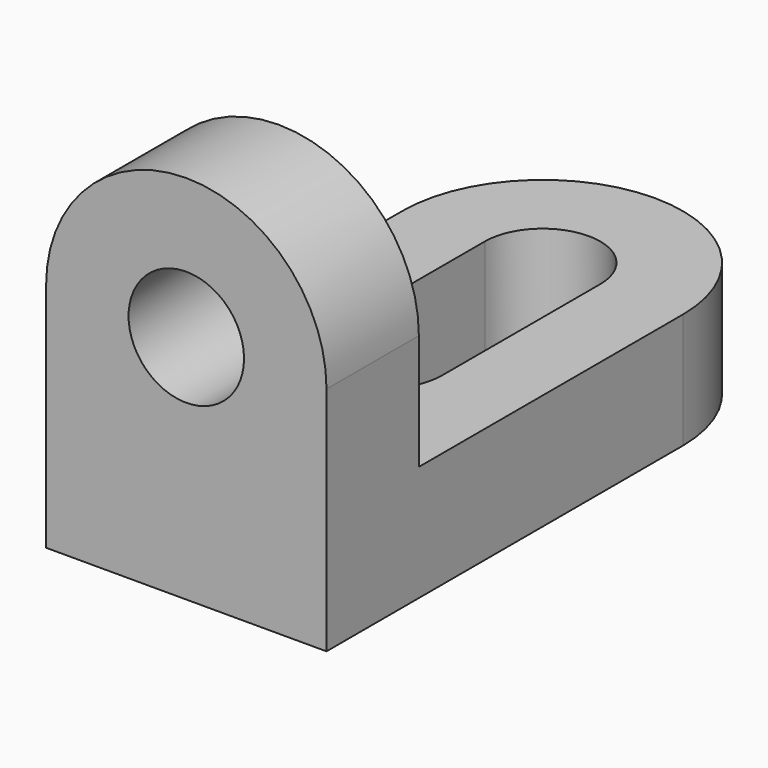
from build123d import *

# Parameters (mm, degrees)
F1_DEPTH = 14
F2_R     = 7
F3_DEPTH = 14


with BuildPart() as f1:
    # F0 (on Top) → F1 (new body)
    with BuildSketch(Plane.XY):
        with BuildLine():
            Line((0, 54), (0, 0))
            Line((0, 0), (34, 0))
            Line((34, 0), (34, 54))
            ThreePointArc((34, 54), (17, 71), (0, 54))
        make_face()
        with BuildLine():
            ThreePointArc((10, 54), (17, 61), (24, 54))
            Line((24, 54), (24, 30))
            ThreePointArc((24, 30), (17, 23), (10, 30))
            Line((10, 30), (10, 54))
        make_face(mode=Mode.SUBTRACT)
    extrude(amount=F1_DEPTH)

    # F2 (on face) → F3 (join)
    with BuildSketch(Plane.XZ):
        with BuildLine():
            Line((0, 28), (0, 14))
            Line((0, 14), (34, 14))
            Line((34, 14), (34, 28))
            ThreePointArc((34, 28), (17, 45), (0, 28))
        make_face()
        with Locations((17, 28)):
            Circle(F2_R, mode=Mode.SUBTRACT)
    extrude(amount=-F3_DEPTH)


solid = f1.part
